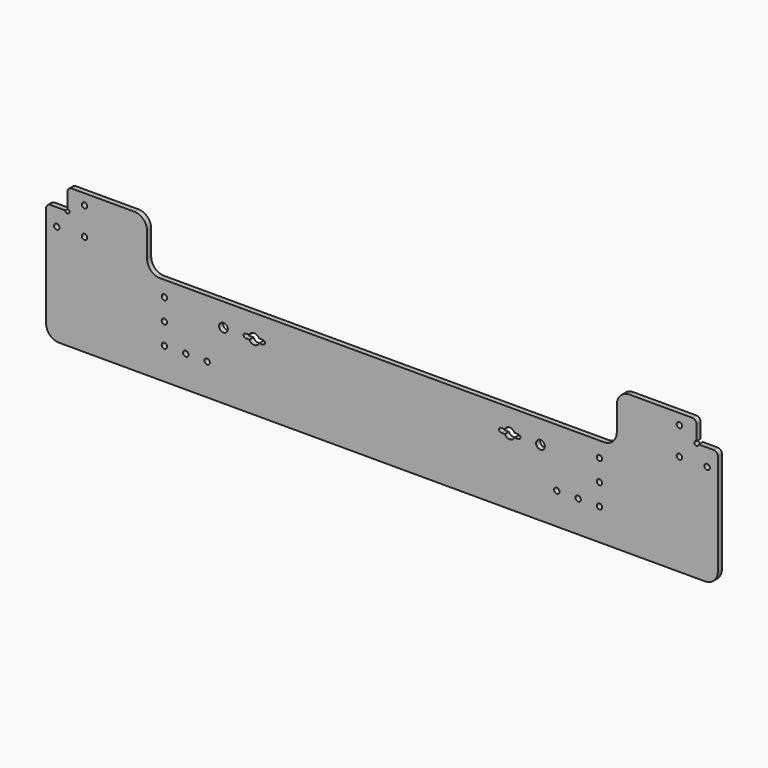
from build123d import *

# Parameters (mm, degrees)
F0_R     = 3.175
F0_R_2   = 5.1
F1_DEPTH = 6


with BuildPart() as f1:
    # F0 (on Front) → F1 (new body)
    with BuildSketch(Plane.XZ):
        with BuildLine():
            Line((368.3, 36.3), (368.3, 53.8))
            ThreePointArc((368.3, 53.8), (366.835534, 57.335534), (363.3, 58.8))
            Line((363.3, 58.8), (289.998539, 58.8))
            ThreePointArc((289.998539, 58.8), (279.391937, 54.406602), (274.998539, 43.8))
            Line((274.998539, 43.8), (274.998539, 15))
            ThreePointArc((274.998539, 15), (270.605141, 4.393398), (259.998539, 0))
            Line((259.998539, 0), (0, 0))
            Line((0, 0), (-259.998539, 0))
            ThreePointArc((-259.998539, 0), (-270.605141, 4.393398), (-274.998539, 15))
            Line((-274.998539, 15), (-274.998539, 43.8))
            ThreePointArc((-274.998539, 43.8), (-279.391937, 54.406602), (-289.998539, 58.8))
            Line((-289.998539, 58.8), (-363.3, 58.8))
            ThreePointArc((-363.3, 58.8), (-366.835534, 57.335534), (-368.3, 53.8))
            Line((-368.3, 53.8), (-368.3, 36.3))
            ThreePointArc((-368.3, 36.3), (-366.532233, 35.567767), (-365.8, 33.8))
            ThreePointArc((-365.8, 33.8), (-368.3, 31.3), (-370.8, 33.8))
            Line((-370.8, 33.8), (-388.3, 33.8))
            ThreePointArc((-388.3, 33.8), (-391.835534, 32.335534), (-393.3, 28.8))
            Line((-393.3, 28.8), (-393.3, -90))
            ThreePointArc((-393.3, -90), (-388.906602, -100.606602), (-378.3, -105))
            Line((-378.3, -105), (0, -105))
            Line((0, -105), (378.3, -105))
            ThreePointArc((378.3, -105), (388.906602, -100.606602), (393.3, -90))
            Line((393.3, -90), (393.3, 28.8))
            ThreePointArc((393.3, 28.8), (391.835534, 32.335534), (388.3, 33.8))
            Line((388.3, 33.8), (370.8, 33.8))
            ThreePointArc((370.8, 33.8), (366.532233, 32.032233), (368.3, 36.3))
        make_face()
        with Locations((-254.7125, -68)):
            Circle(F0_R, mode=Mode.SUBTRACT)
        with Locations((-229.7125, -68)):
            Circle(F0_R, mode=Mode.SUBTRACT)
        with Locations((-204.7125, -68)):
            Circle(F0_R, mode=Mode.SUBTRACT)
        with Locations((-254.7125, -43)):
            Circle(F0_R, mode=Mode.SUBTRACT)
        with Locations((-185.6125, -26.9)):
            Circle(F0_R_2, mode=Mode.SUBTRACT)
        with BuildLine():
            ThreePointArc((-155.164491, -24.375544), (-149.556494, -20.75), (-143.948498, -24.375544))
            Line((-143.948498, -24.375544), (-139.556503, -24.375544))
            ThreePointArc((-139.556503, -24.375544), (-137.788736, -25.107777), (-137.056503, -26.875544))
            ThreePointArc((-137.056503, -26.875544), (-137.788736, -28.643311), (-139.556503, -29.375544))
            Line((-139.556503, -29.375544), (-143.926736, -29.375544))
            ThreePointArc((-143.926736, -29.375544), (-149.556494, -33.05), (-155.186253, -29.375544))
            Line((-155.186253, -29.375544), (-159.556503, -29.375544))
            ThreePointArc((-159.556503, -29.375544), (-162.056494, -26.87554), (-159.556494, -24.375544))
            Line((-159.556494, -24.375544), (-155.164491, -24.375544))
        make_face(mode=Mode.SUBTRACT)
        with Locations((204.7125, -68)):
            Circle(F0_R, mode=Mode.SUBTRACT)
        with Locations((229.7125, -68)):
            Circle(F0_R, mode=Mode.SUBTRACT)
        with Locations((254.7125, -68)):
            Circle(F0_R, mode=Mode.SUBTRACT)
        with BuildLine():
            ThreePointArc((143.948498, -24.375544), (149.556494, -20.75), (155.164491, -24.375544))
            Line((155.164491, -24.375544), (159.556494, -24.375544))
            ThreePointArc((159.556494, -24.375544), (161.324261, -25.107777), (162.056494, -26.875544))
            ThreePointArc((162.056494, -26.875544), (161.324264, -28.643308), (159.556503, -29.375544))
            Line((159.556503, -29.375544), (155.186253, -29.375544))
            ThreePointArc((155.186253, -29.375544), (149.556494, -33.05), (143.926736, -29.375544))
            Line((143.926736, -29.375544), (139.556503, -29.375544))
            ThreePointArc((139.556503, -29.375544), (137.056503, -26.875544), (139.556503, -24.375544))
            Line((139.556503, -24.375544), (143.948498, -24.375544))
        make_face(mode=Mode.SUBTRACT)
        with Locations((185.6125, -26.9)):
            Circle(F0_R_2, mode=Mode.SUBTRACT)
        with Locations((254.7125, -43)):
            Circle(F0_R, mode=Mode.SUBTRACT)
        with Locations((-254.7125, -18)):
            Circle(F0_R, mode=Mode.SUBTRACT)
        with Locations((-380.8, 13.8)):
            Circle(F0_R, mode=Mode.SUBTRACT)
        with Locations((-348.3, 13.8)):
            Circle(F0_R, mode=Mode.SUBTRACT)
        with Locations((-348.3, 46.3)):
            Circle(F0_R, mode=Mode.SUBTRACT)
        with Locations((254.7125, -18)):
            Circle(F0_R, mode=Mode.SUBTRACT)
        with Locations((348.3, 13.8)):
            Circle(F0_R, mode=Mode.SUBTRACT)
        with Locations((380.8, 13.8)):
            Circle(F0_R, mode=Mode.SUBTRACT)
        with Locations((348.3, 46.3)):
            Circle(F0_R, mode=Mode.SUBTRACT)
    extrude(amount=F1_DEPTH)


solid = f1.part
